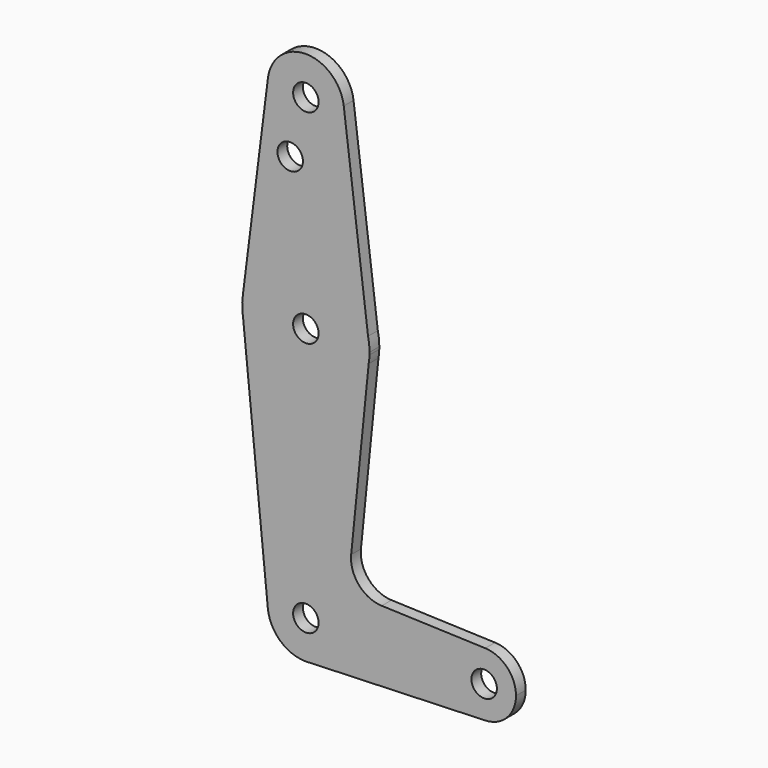
from build123d import *

# Parameters (mm, degrees)
F0_R     = 3.175
F1_DEPTH = 3.048


with BuildPart() as f1:
    # F0 (on Front) → F1 (new body)
    with BuildSketch(Plane.XZ):
        with BuildLine():
            ThreePointArc((-31.157624, 61.517731), (-22.303059, 50.821964), (-12.18218, 60.328306))
            ThreePointArc((-12.18218, 60.328306), (-12.200487, 60.918582), (-12.25534, 61.506589))
            ThreePointArc((-12.25534, 61.506589), (-21.701565, 69.853305), (-31.157624, 61.517731))
        make_face()
        with Locations((-21.70718, 60.328306)):
            Circle(F0_R, mode=Mode.SUBTRACT)
        with BuildLine():
            ThreePointArc((-12.25534, 61.506589), (-12.200487, 60.918582), (-12.18218, 60.328306))
            ThreePointArc((-12.18218, 60.328306), (-22.303059, 50.821964), (-31.157624, 61.517731))
            Line((-31.157624, 61.517731), (-37.395281, 11.957115))
            ThreePointArc((-37.395281, 11.957115), (-22.195414, 25.395797), (-6.198081, 12.917036))
            Line((-6.198081, 12.917036), (-12.25534, 61.506589))
        make_face()
        with Locations((-25.615269, 46.053506)):
            Circle(F0_R, mode=Mode.SUBTRACT)
        with BuildLine():
            ThreePointArc((-5.83218, 9.528306), (-5.92392, 11.23252), (-6.198081, 12.917036))
            ThreePointArc((-6.198081, 12.917036), (-22.195414, 25.395797), (-37.395281, 11.957115))
            ThreePointArc((-37.395281, 11.957115), (-37.581572, 9.389465), (-37.350398, 6.825466))
            ThreePointArc((-37.350398, 6.825466), (-21.648376, -6.346585), (-6.044367, 6.941429))
            Line((-6.044367, 6.941429), (-5.843142, 8.938432))
            ThreePointArc((-5.843142, 8.938432), (-5.834921, 9.233318), (-5.83218, 9.528306))
        make_face()
        with Locations((-21.70718, 9.528306)):
            Circle(F0_R, mode=Mode.SUBTRACT)
        with BuildLine():
            ThreePointArc((-6.044367, 6.941429), (-21.648376, -6.346585), (-37.350398, 6.825466))
            Line((-37.350398, 6.825466), (-31.185046, -54.918098))
            ThreePointArc((-31.185046, -54.918098), (-22.180968, -44.458484), (-12.18218, -53.971694))
            ThreePointArc((-12.18218, -53.971694), (-14.652374, -60.37133), (-20.781727, -63.451628))
            Line((-20.781727, -63.451628), (23.023034, -61.904246))
            ThreePointArc((23.023034, -61.904246), (14.805321, -53.970597), (23.025226, -46.039219))
            Line((23.025226, -46.039219), (-2.782115, -45.120448))
            ThreePointArc((-2.782115, -45.120448), (-8.489911, -42.401921), (-10.409402, -36.378228))
            Line((-10.409402, -36.378228), (-6.044367, 6.941429))
        make_face()
        with BuildLine():
            ThreePointArc((-6.044367, 6.941429), (-5.912162, 7.936747), (-5.843142, 8.938432))
            Line((-5.843142, 8.938432), (-6.044367, 6.941429))
        make_face()
        with BuildLine():
            ThreePointArc((-12.18218, -53.971694), (-22.180968, -44.458484), (-31.185046, -54.918098))
            ThreePointArc((-31.185046, -54.918098), (-28.192698, -60.947629), (-21.961411, -63.4933))
            Line((-21.961411, -63.4933), (-20.781727, -63.451628))
            ThreePointArc((-20.781727, -63.451628), (-14.652374, -60.37133), (-12.18218, -53.971694))
        make_face()
        with Locations((-21.70718, -53.971694)):
            Circle(F0_R, mode=Mode.SUBTRACT)
        with BuildLine():
            Line((-20.781727, -63.451628), (-21.961411, -63.4933))
            ThreePointArc((-21.961411, -63.4933), (-21.370923, -63.490756), (-20.781727, -63.451628))
        make_face()
        with BuildLine():
            ThreePointArc((30.68032, -53.971694), (28.454453, -48.459783), (23.025226, -46.039219))
            ThreePointArc((23.025226, -46.039219), (14.805321, -53.970597), (23.023034, -61.904246))
            ThreePointArc((23.023034, -61.904246), (28.453692, -59.484393), (30.68032, -53.971694))
        make_face()
        with Locations((22.74282, -53.971694)):
            Circle(F0_R, mode=Mode.SUBTRACT)
    extrude(amount=F1_DEPTH)


solid = f1.part
